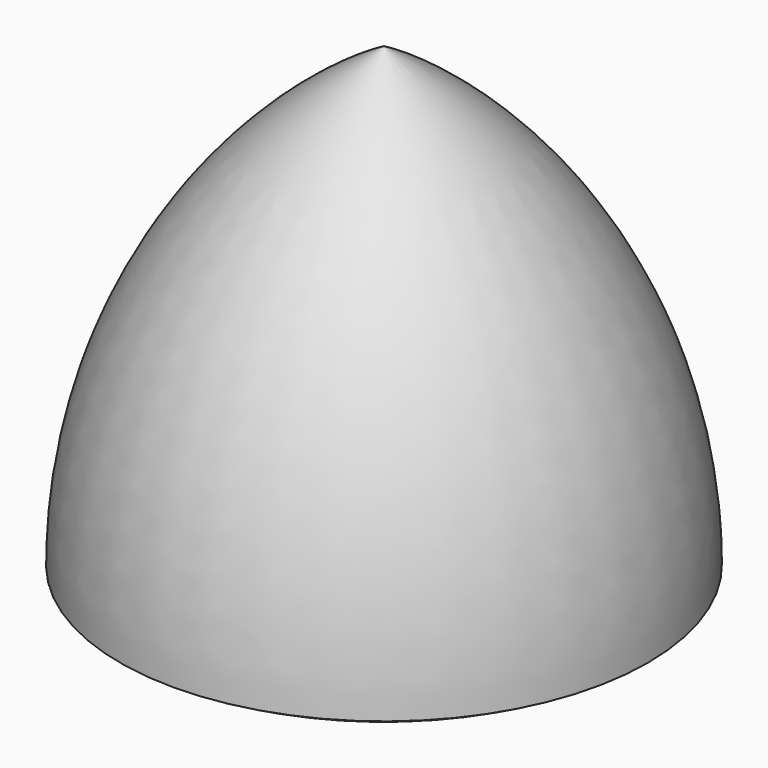
from build123d import *


with BuildPart() as f1:
    # F0 (on Front) → F1 (revolve)
    with BuildSketch(Plane.XZ):
        with BuildLine():
            Line((-34.469482, -19.900965), (0, 39.801929))
            ThreePointArc((0, 39.801929), (-25.233412, 14.568517), (-34.469482, -19.900965))
        make_face()
        Polygon((0, -19.900965), (0, 39.801929), (-34.469482, -19.900965), align=None)
        with BuildLine():
            Line((0, -19.900965), (-34.469482, -19.900965))
            ThreePointArc((-34.469482, -19.900965), (-17.842717, -26.787996), (0, -29.137034))
            Line((0, -29.137034), (0, -19.900965))
        make_face()
    revolve(axis=Axis((0, 0, 5.332447), (0, 0, -1)))


solid = f1.part
